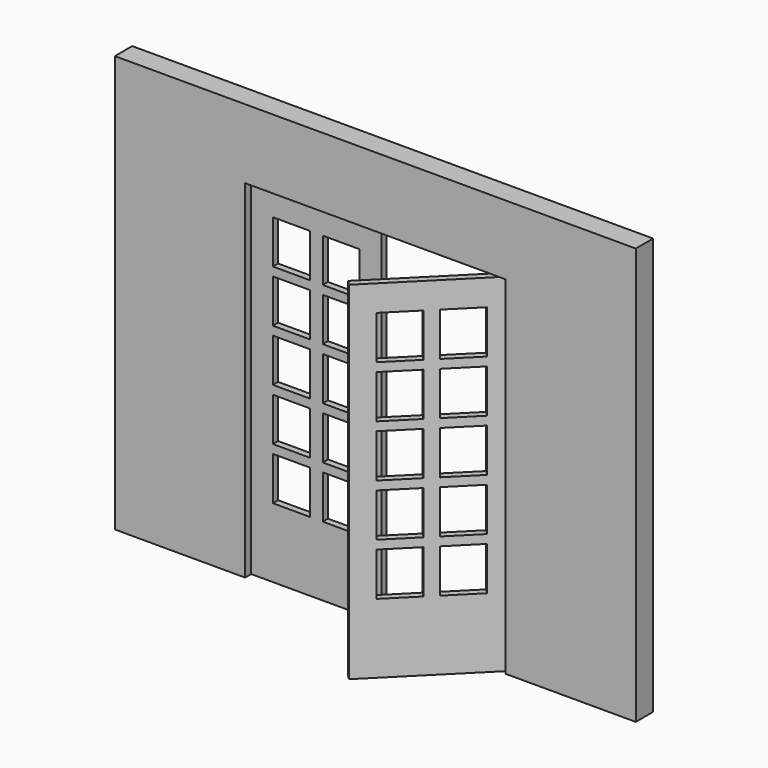
from build123d import *

# Parameters (mm, degrees)
F1_DEPTH      = 63.5
F1_DEPTH_BACK = 63.5
F2_W          = 762
F2_H          = 2032
F3_DEPTH      = 19.05
F3_DEPTH_BACK = 19.05
F6_W          = 215.9
F6_H          = 254
F7_DEPTH      = 82.551
F8_W          = 762
F8_H          = 2032
F8_W_2        = 215.9
F8_H_2        = 254
F9_DEPTH      = 19.05
F9_DEPTH_BACK = 19.05


with BuildPart() as f1:
    # F0 (on Front) → F1 (new body, two sides)
    with BuildSketch(Plane.XZ) as f1_sk:
        Polygon((-2286, 1671.798047), (-2286, -766.601953), (-1524, -766.601953), (-1524, 1265.398047), (0, 1265.398047), (0, -766.601953), (762, -766.601953), (762, 1671.798047), align=None)
    extrude(amount=F1_DEPTH)
    extrude(f1_sk.sketch, amount=-F1_DEPTH_BACK)

    # F8 (on face) → F9 (join, two sides)
    with BuildSketch(Plane(origin=(0, 0, 0), x_dir=(-0.707107, -0.707107, 0), z_dir=(-0.707107, 0.707107, 0))) as f9_sk:
        with Locations((381, 249.398047)):
            Rectangle(F8_W, F8_H)
        with Locations((234.95, -233.201953)):
            Rectangle(F8_W_2, F8_H_2, mode=Mode.SUBTRACT)
        with Locations((234.95, 71.598047)):
            Rectangle(F8_W_2, F8_H_2, mode=Mode.SUBTRACT)
        with Locations((527.05, -233.201953)):
            Rectangle(F8_W_2, F8_H_2, mode=Mode.SUBTRACT)
        with Locations((527.05, 71.598047)):
            Rectangle(F8_W_2, F8_H_2, mode=Mode.SUBTRACT)
        with Locations((234.95, 376.398047)):
            Rectangle(F8_W_2, F8_H_2, mode=Mode.SUBTRACT)
        with Locations((234.95, 681.198047)):
            Rectangle(F8_W_2, F8_H_2, mode=Mode.SUBTRACT)
        with Locations((234.95, 985.998047)):
            Rectangle(F8_W_2, F8_H_2, mode=Mode.SUBTRACT)
        with Locations((527.05, 376.398047)):
            Rectangle(F8_W_2, F8_H_2, mode=Mode.SUBTRACT)
        with Locations((527.05, 681.198047)):
            Rectangle(F8_W_2, F8_H_2, mode=Mode.SUBTRACT)
        with Locations((527.05, 985.998047)):
            Rectangle(F8_W_2, F8_H_2, mode=Mode.SUBTRACT)
    extrude(amount=F9_DEPTH)
    extrude(f9_sk.sketch, amount=-F9_DEPTH_BACK)


with BuildPart() as f3:
    # F2 (on Front) → F3 (new body, two sides)
    with BuildSketch(Plane.XZ) as f3_sk:
        with Locations((-1143, 249.398047)):
            Rectangle(F2_W, F2_H)
    extrude(amount=F3_DEPTH)
    extrude(f3_sk.sketch, amount=-F3_DEPTH_BACK)

    # F6 (on face) → F7 (cut, through all)
    with BuildSketch(Plane.XZ.offset(19.05)):
        with Locations((-1289.05, 985.998047)):
            Rectangle(F6_W, F6_H)
        with Locations((-996.95, 985.998047)):
            Rectangle(F6_W, F6_H)
        with Locations((-1289.05, 681.198047)):
            Rectangle(F6_W, F6_H)
        with Locations((-996.95, 681.198047)):
            Rectangle(F6_W, F6_H)
        with Locations((-1289.05, 376.398047)):
            Rectangle(F6_W, F6_H)
        with Locations((-996.95, 376.398047)):
            Rectangle(F6_W, F6_H)
        with Locations((-1289.05, 71.598047)):
            Rectangle(F6_W, F6_H)
        with Locations((-996.95, 71.598047)):
            Rectangle(F6_W, F6_H)
        with Locations((-1289.05, -233.201953)):
            Rectangle(F6_W, F6_H)
        with Locations((-996.95, -233.201953)):
            Rectangle(F6_W, F6_H)
    extrude(amount=-F7_DEPTH, mode=Mode.SUBTRACT)


solid = Compound([f1.part, f3.part])
